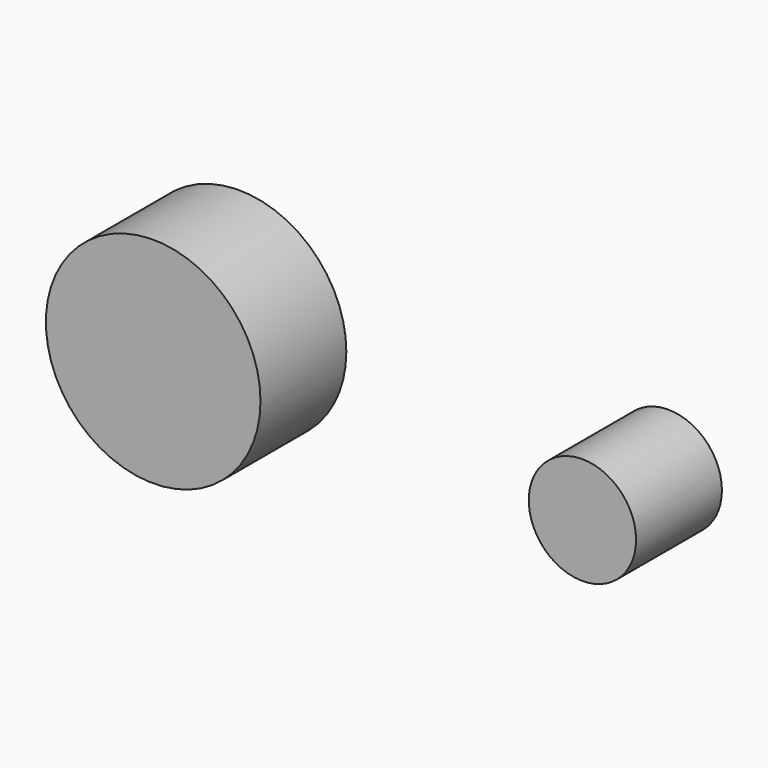
from build123d import *

# Parameters (mm, degrees)
F0_R     = 50
F0_R_2   = 25
F1_DEPTH = 50


with BuildPart() as f1:
    # F0 (on Front) → F1 (new body)
    with BuildSketch(Plane.XZ):
        Circle(F0_R)
        with Locations((200, 0)):
            Circle(F0_R_2)
        Circle(F0_R)
    extrude(amount=F1_DEPTH)


solid = f1.part
